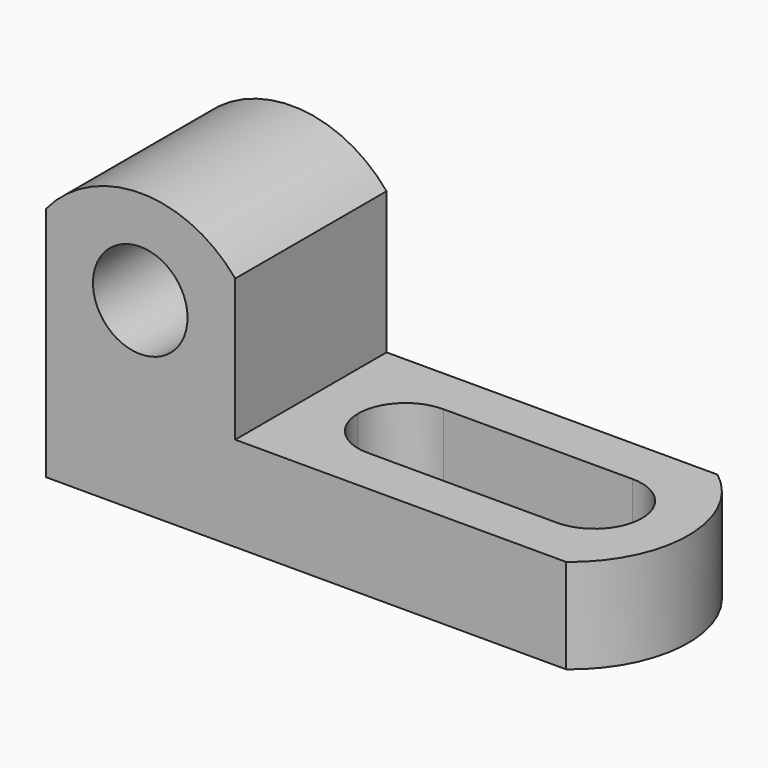
from build123d import *

# Parameters (mm, degrees)
F1_DEPTH = 25.4
F3_DEPTH = 25.4
F5_DEPTH = 25.4
F6_R     = 6.35
F7_DEPTH = 25.4
F9_DEPTH = 25.4


with BuildPart() as f1:
    # F0 (on Front) → F1 (new body)
    with BuildSketch(Plane.XZ):
        Polygon((0, 38.1), (0, 0), (76.2, 0), (76.2, 12.7), (25.4, 12.7), (25.4, 38.1), align=None)
    extrude(amount=F1_DEPTH)

    # F2 (on face) → F3 (cut)
    with BuildSketch(Plane.XZ.offset(25.4)):
        with BuildLine():
            Line((0, 38.1), (0, 31.75))
            ThreePointArc((0, 31.75), (12.7, 37.721269), (25.4, 31.75))
            Line((25.4, 31.75), (25.4, 38.1))
            Line((25.4, 38.1), (0, 38.1))
        make_face()
    extrude(amount=-F3_DEPTH, mode=Mode.SUBTRACT)

    # F4 (on face) → F5 (cut)
    with BuildSketch(Plane.XY.offset(12.7)):
        with BuildLine():
            Line((63.5, -6.35), (38.1, -6.35))
            ThreePointArc((38.1, -6.35), (33.609872, -8.209872), (31.75, -12.7))
            ThreePointArc((31.75, -12.7), (33.609872, -17.190128), (38.1, -19.05))
            Line((38.1, -19.05), (63.5, -19.05))
            ThreePointArc((63.5, -19.05), (67.990128, -17.190128), (69.85, -12.7))
            ThreePointArc((69.85, -12.7), (67.990128, -8.209872), (63.5, -6.35))
        make_face()
    extrude(amount=-F5_DEPTH, mode=Mode.SUBTRACT)

    # F6 (on face) → F7 (cut)
    with BuildSketch(Plane.XZ.offset(25.4)):
        with Locations((12.644723, 25.02139)):
            Circle(F6_R)
    extrude(amount=-F7_DEPTH, mode=Mode.SUBTRACT)

    # F8 (on face) → F9 (cut)
    with BuildSketch(Plane.XY.offset(12.7)):
        with BuildLine():
            Line((76.2, 0), (69.85, 0))
            ThreePointArc((69.85, 0), (76.095109, -12.7), (69.85, -25.4))
            Line((69.85, -25.4), (76.2, -25.4))
            Line((76.2, -25.4), (76.2, 0))
        make_face()
    extrude(amount=-F9_DEPTH, mode=Mode.SUBTRACT)


solid = f1.part
